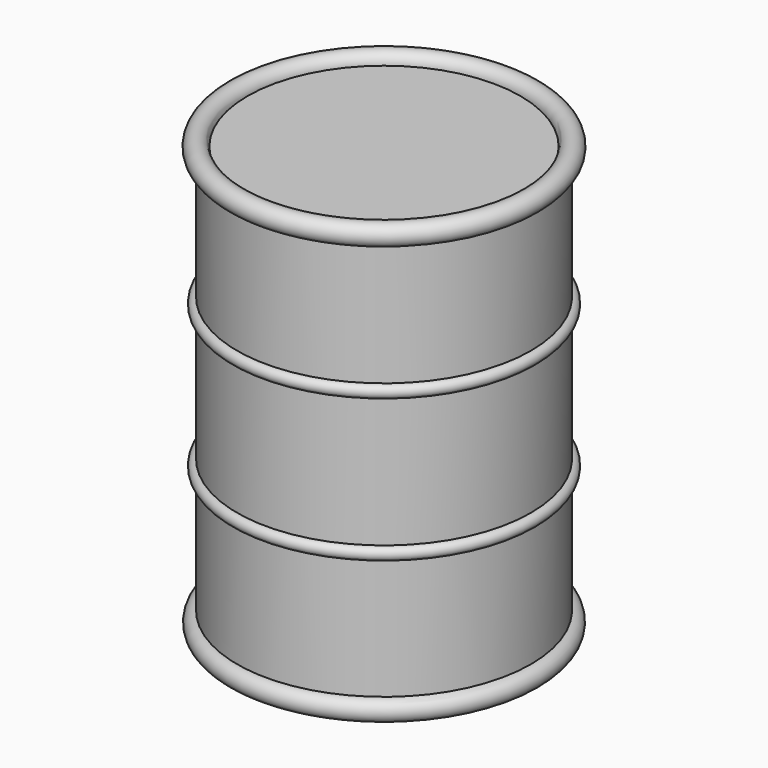
from build123d import *

# Parameters (mm, degrees)
F0_R     = 3.5
F1_DEPTH = 10
F2_R     = 0.25
F2_R_2   = 0.249352
F2_R_3   = 0.15


with BuildPart() as f1:
    # F0 (on Top) → F1 (new body)
    with BuildSketch(Plane.XY):
        Circle(F0_R)
    extrude(amount=-F1_DEPTH)

    # F2 (on Front) → F3 (revolve)
    with BuildSketch(Plane.XZ):
        with Locations((-3.5, 0)):
            Circle(F2_R)
        with Locations((-3.490558, -9.975551)):
            Circle(F2_R_2)
        with Locations((-3.5, -3.3)):
            Circle(F2_R_3)
        with Locations((-3.5, -6.7)):
            Circle(F2_R_3)
    revolve(axis=Axis((0, 0, 0), (0, 0, 1)))


solid = f1.part
